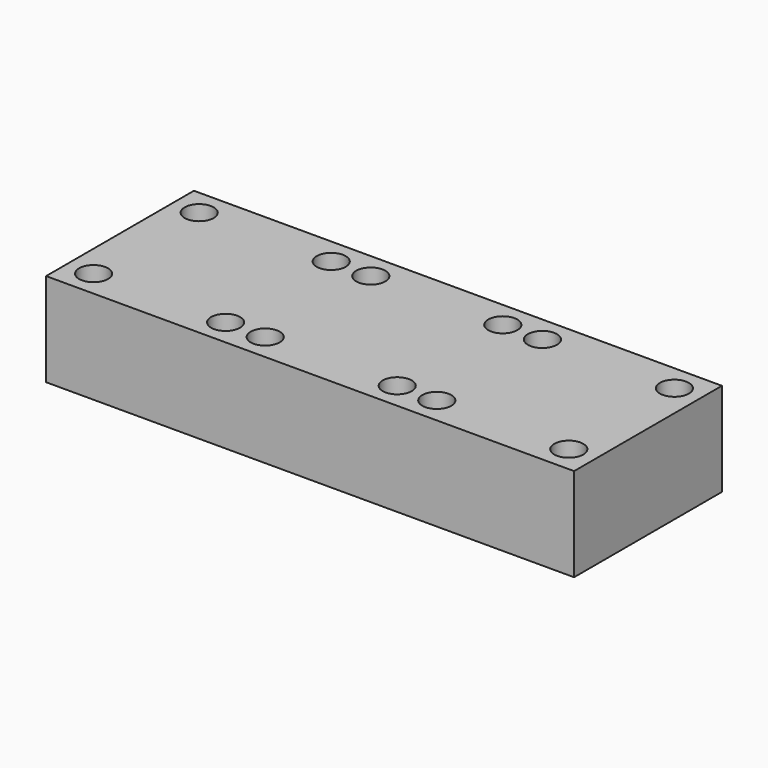
from build123d import *

# Parameters (mm, degrees)
F0_W     = 100
F0_H     = 35
F1_DEPTH = 17.7
F2_D     = 5.5


with BuildPart() as f1:
    # F0 (on Top) → F1 (new body)
    with BuildSketch(Plane.XY):
        with Locations((50, 17.5)):
            Rectangle(F0_W, F0_H)
    extrude(amount=F1_DEPTH)

    # F2 (through all)
    with Locations(Plane(origin=(0, 0, 0), x_dir=(1, 0, 0), z_dir=(0, 0, -1))):
        with Locations((5, -30), (5, -5), (30, -5), (37.5, -5), (37.5, -30), (30, -30), (62.5, -30), (62.5, -5), (70, -5), (70, -30), (95, -30), (95, -5)):
            Hole(F2_D / 2)


solid = f1.part
